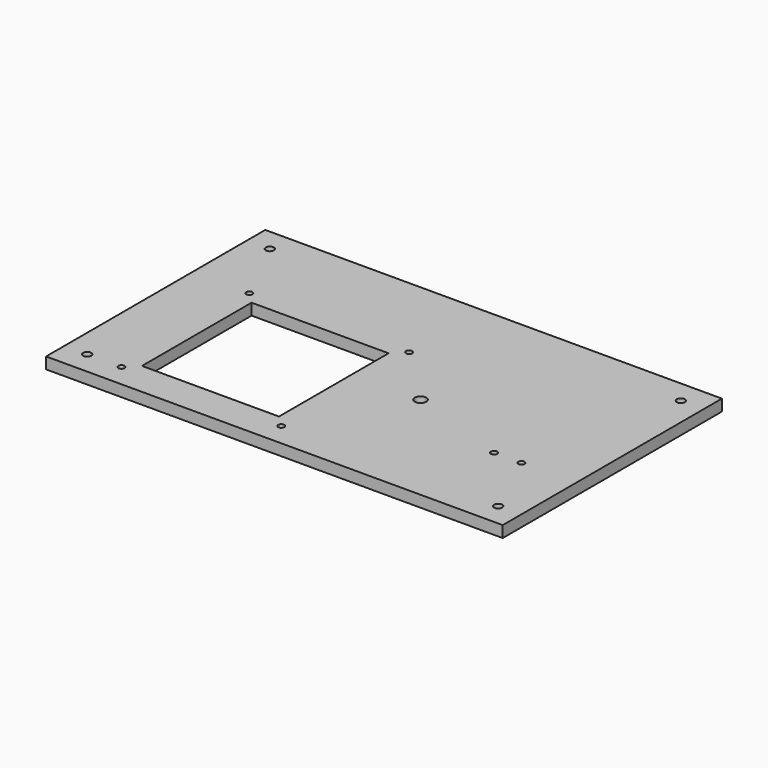
from build123d import *

# Parameters (mm, degrees)
F0_W     = 254
F0_H     = 152.4
F0_R     = 2.2479
F0_R_2   = 1.7272
F0_W_2   = 76.2
F0_H_2   = 76.2
F0_R_3   = 3.175
F1_DEPTH = 6.35


with BuildPart() as f1:
    # F0 (on Top) → F1 (new body)
    with BuildSketch(Plane.XY):
        Rectangle(F0_W, F0_H)
        with Locations((-114.3, -63.5)):
            Circle(F0_R, mode=Mode.SUBTRACT)
        with Locations((-95.25, -63.5)):
            Circle(F0_R_2, mode=Mode.SUBTRACT)
        with Locations((-6.35, -63.5)):
            Circle(F0_R_2, mode=Mode.SUBTRACT)
        with Locations((-50.8, -19.05)):
            Rectangle(F0_W_2, F0_H_2, mode=Mode.SUBTRACT)
        with Locations((114.3, -63.5)):
            Circle(F0_R, mode=Mode.SUBTRACT)
        with Locations((25.4, -6.35)):
            Circle(F0_R_3, mode=Mode.SUBTRACT)
        with Locations((81.534, -25.4)):
            Circle(F0_R_2, mode=Mode.SUBTRACT)
        with Locations((96.774, -25.4)):
            Circle(F0_R_2, mode=Mode.SUBTRACT)
        with Locations((-95.25, 25.4)):
            Circle(F0_R_2, mode=Mode.SUBTRACT)
        with Locations((-6.35, 25.4)):
            Circle(F0_R_2, mode=Mode.SUBTRACT)
        with Locations((-114.3, 63.5)):
            Circle(F0_R, mode=Mode.SUBTRACT)
        with Locations((114.3, 63.5)):
            Circle(F0_R, mode=Mode.SUBTRACT)
    extrude(amount=F1_DEPTH)


solid = f1.part
